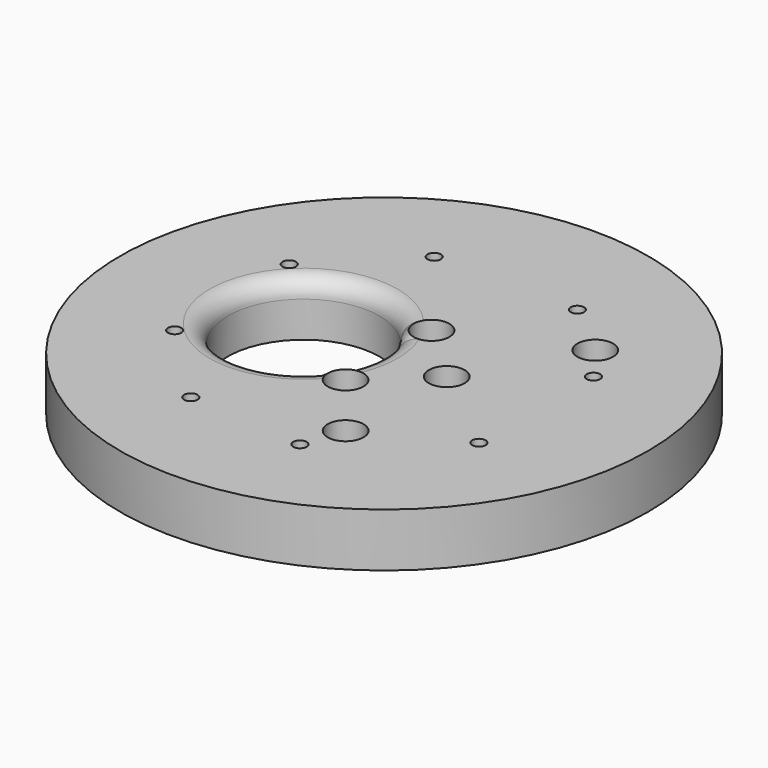
from build123d import *

# Parameters (mm, degrees)
CYLINDER1886_R     = 59
CYLINDER1886_DEPTH = 16
CYLINDER1957_R     = 17
CYLINDER1957_DEPTH = 160
CYLINDER1873_R     = 4
CYLINDER1873_DEPTH = 100
CYLINDER1883_R     = 4
CYLINDER1883_DEPTH = 100
CYLINDER1952_R     = 1.5
CYLINDER1952_DEPTH = 100
CYLINDER1950_R     = 1.5
CYLINDER1950_DEPTH = 100
CYLINDER1954_R     = 1.5
CYLINDER1954_DEPTH = 100
CYLINDER1971_R     = 1.5
CYLINDER1971_DEPTH = 100
CYLINDER1955_R     = 1.5
CYLINDER1955_DEPTH = 100
CYLINDER1953_R     = 1.5
CYLINDER1953_DEPTH = 100
CYLINDER1958_R     = 1.5
CYLINDER1958_DEPTH = 100
CYLINDER1956_R     = 1.5
CYLINDER1956_DEPTH = 100
CYLINDER1884_R     = 4
CYLINDER1884_DEPTH = 100
CYLINDER1872_R     = 4
CYLINDER1872_DEPTH = 100
CYLINDER1959_R     = 4
CYLINDER1959_DEPTH = 100
CYLINDER1951_R     = 4
CYLINDER1951_DEPTH = 100
CYLINDER1949_R     = 4
CYLINDER1949_DEPTH = 100
CYLINDER1885_R     = 4
CYLINDER1885_DEPTH = 100
CYLINDER1948_R     = 4
CYLINDER1948_DEPTH = 100
CYLINDER1960_R     = 4
CYLINDER1960_DEPTH = 100
CYLINDER1877_R     = 4
CYLINDER1877_DEPTH = 20
CYLINDER1874_R     = 4
CYLINDER1874_DEPTH = 20
CYLINDER1878_R     = 4
CYLINDER1878_DEPTH = 20
CYLINDER1879_R     = 4
CYLINDER1879_DEPTH = 40
CYLINDER1880_R     = 4
CYLINDER1880_DEPTH = 40
CYLINDER1881_R     = 4
CYLINDER1881_DEPTH = 40
CYLINDER1882_R     = 4
CYLINDER1882_DEPTH = 40
CYLINDER1875_R     = 4
CYLINDER1875_DEPTH = 20
CYLINDER1876_R     = 59
CYLINDER1876_DEPTH = 16
CHAMFER064_SIZE    = 4
FILLET004_R        = 4


with BuildPart() as obj1:
    # Cylinder1886 → Cylinder1886 (new body)
    with BuildSketch(Plane.XY.offset(10)):
        Circle(CYLINDER1886_R)
    extrude(amount=CYLINDER1886_DEPTH)


with BuildPart() as obj2:
    # Cylinder1957 → Cylinder1957 (new body)
    with BuildSketch(Plane(origin=(-18, 0, -60), x_dir=(1, 0, 0), z_dir=(0, 0, 1))):
        Circle(CYLINDER1957_R)
    extrude(amount=CYLINDER1957_DEPTH)


with BuildPart() as obj3:
    # Cylinder1873 → Cylinder1873 (new body)
    with BuildSketch(Plane(origin=(14, 0, -18), x_dir=(1, 0, 0), z_dir=(0, 0, 1))):
        Circle(CYLINDER1873_R)
    extrude(amount=CYLINDER1873_DEPTH)


with BuildPart() as obj4:
    # Cylinder1883 → Cylinder1883 (new body)
    with BuildSketch(Plane(origin=(90, 0, -18), x_dir=(1, 0, 0), z_dir=(0, 0, 1))):
        Circle(CYLINDER1883_R)
    extrude(amount=CYLINDER1883_DEPTH)

    # Compound973: union obj3
    add(obj3.part)


with BuildPart() as obj5:
    # Cylinder1952 → Cylinder1952 (new body)
    with BuildSketch(Plane(origin=(-34, -16, -60), x_dir=(1, 0, 0), z_dir=(0, 0, 1))):
        Circle(CYLINDER1952_R)
    extrude(amount=CYLINDER1952_DEPTH)


with BuildPart() as obj6:
    # Cylinder1950 → Cylinder1950 (new body)
    with BuildSketch(Plane(origin=(34, -16, -60), x_dir=(1, 0, 0), z_dir=(0, 0, 1))):
        Circle(CYLINDER1950_R)
    extrude(amount=CYLINDER1950_DEPTH)


with BuildPart() as obj7:
    # Cylinder1954 → Cylinder1954 (new body)
    with BuildSketch(Plane(origin=(34, 16, -60), x_dir=(1, 0, 0), z_dir=(0, 0, 1))):
        Circle(CYLINDER1954_R)
    extrude(amount=CYLINDER1954_DEPTH)


with BuildPart() as obj8:
    # Cylinder1971 → Cylinder1971 (new body)
    with BuildSketch(Plane(origin=(16, 34, -60), x_dir=(1, 0, 0), z_dir=(0, 0, 1))):
        Circle(CYLINDER1971_R)
    extrude(amount=CYLINDER1971_DEPTH)


with BuildPart() as obj9:
    # Cylinder1955 → Cylinder1955 (new body)
    with BuildSketch(Plane(origin=(10, -36, -60), x_dir=(1, 0, 0), z_dir=(0, 0, 1))):
        Circle(CYLINDER1955_R)
    extrude(amount=CYLINDER1955_DEPTH)


with BuildPart() as obj10:
    # Cylinder1953 → Cylinder1953 (new body)
    with BuildSketch(Plane(origin=(-16, -34, -60), x_dir=(1, 0, 0), z_dir=(0, 0, 1))):
        Circle(CYLINDER1953_R)
    extrude(amount=CYLINDER1953_DEPTH)


with BuildPart() as obj11:
    # Cylinder1958 → Cylinder1958 (new body)
    with BuildSketch(Plane(origin=(-16, 34, -60), x_dir=(1, 0, 0), z_dir=(0, 0, 1))):
        Circle(CYLINDER1958_R)
    extrude(amount=CYLINDER1958_DEPTH)


with BuildPart() as obj12:
    # Cylinder1956 → Cylinder1956 (new body)
    with BuildSketch(Plane(origin=(-34, 16, -60), x_dir=(1, 0, 0), z_dir=(0, 0, 1))):
        Circle(CYLINDER1956_R)
    extrude(amount=CYLINDER1956_DEPTH)

    # Compound971: union obj5, obj6, obj7, obj8, obj9, obj10, obj11
    add(obj5.part)
    add(obj6.part)
    add(obj7.part)
    add(obj8.part)
    add(obj9.part)
    add(obj10.part)
    add(obj11.part)


with BuildPart() as obj13:
    # Cylinder1884 → Cylinder1884 (new body)
    with BuildSketch(Plane(origin=(-16, 34, -90), x_dir=(1, 0, 0), z_dir=(0, 0, 1))):
        Circle(CYLINDER1884_R)
    extrude(amount=CYLINDER1884_DEPTH)


with BuildPart() as obj14:
    # Cylinder1872 → Cylinder1872 (new body)
    with BuildSketch(Plane(origin=(-16, -34, -90), x_dir=(1, 0, 0), z_dir=(0, 0, 1))):
        Circle(CYLINDER1872_R)
    extrude(amount=CYLINDER1872_DEPTH)


with BuildPart() as obj15:
    # Cylinder1959 → Cylinder1959 (new body)
    with BuildSketch(Plane(origin=(34, -16, -90), x_dir=(1, 0, 0), z_dir=(0, 0, 1))):
        Circle(CYLINDER1959_R)
    extrude(amount=CYLINDER1959_DEPTH)


with BuildPart() as obj16:
    # Cylinder1951 → Cylinder1951 (new body)
    with BuildSketch(Plane(origin=(16, 34, -90), x_dir=(1, 0, 0), z_dir=(0, 0, 1))):
        Circle(CYLINDER1951_R)
    extrude(amount=CYLINDER1951_DEPTH)


with BuildPart() as obj17:
    # Cylinder1949 → Cylinder1949 (new body)
    with BuildSketch(Plane(origin=(10, -36, -90), x_dir=(1, 0, 0), z_dir=(0, 0, 1))):
        Circle(CYLINDER1949_R)
    extrude(amount=CYLINDER1949_DEPTH)


with BuildPart() as obj18:
    # Cylinder1885 → Cylinder1885 (new body)
    with BuildSketch(Plane(origin=(-34, 16, -90), x_dir=(1, 0, 0), z_dir=(0, 0, 1))):
        Circle(CYLINDER1885_R)
    extrude(amount=CYLINDER1885_DEPTH)


with BuildPart() as obj19:
    # Cylinder1948 → Cylinder1948 (new body)
    with BuildSketch(Plane(origin=(34, 16, -90), x_dir=(1, 0, 0), z_dir=(0, 0, 1))):
        Circle(CYLINDER1948_R)
    extrude(amount=CYLINDER1948_DEPTH)


with BuildPart() as obj20:
    # Cylinder1960 → Cylinder1960 (new body)
    with BuildSketch(Plane(origin=(-34, -16, -90), x_dir=(1, 0, 0), z_dir=(0, 0, 1))):
        Circle(CYLINDER1960_R)
    extrude(amount=CYLINDER1960_DEPTH)

    # Compound975: union obj13, obj14, obj15, obj16, obj17, obj18, obj19
    add(obj13.part)
    add(obj14.part)
    add(obj15.part)
    add(obj16.part)
    add(obj17.part)
    add(obj18.part)
    add(obj19.part)


with BuildPart() as obj21:
    # Cylinder1877 → Cylinder1877 (new body)
    with BuildSketch(Plane(origin=(103, 12, -20), x_dir=(1, 0, 0), z_dir=(0, 0, 1))):
        Circle(CYLINDER1877_R)
    extrude(amount=CYLINDER1877_DEPTH)


with BuildPart() as obj22:
    # Cylinder1874 → Cylinder1874 (new body)
    with BuildSketch(Plane(origin=(76, 24, -18), x_dir=(1, 0, 0), z_dir=(0, 0, 1))):
        Circle(CYLINDER1874_R)
    extrude(amount=CYLINDER1874_DEPTH)


with BuildPart() as obj23:
    # Cylinder1878 → Cylinder1878 (new body)
    with BuildSketch(Plane(origin=(91, -27, -18), x_dir=(1, 0, 0), z_dir=(0, 0, 1))):
        Circle(CYLINDER1878_R)
    extrude(amount=CYLINDER1878_DEPTH)


with BuildPart() as obj24:
    # Cylinder1879 → Cylinder1879 (new body)
    with BuildSketch(Plane(origin=(13, -27, -18), x_dir=(1, 0, 0), z_dir=(0, 0, 1))):
        Circle(CYLINDER1879_R)
    extrude(amount=CYLINDER1879_DEPTH)


with BuildPart() as obj25:
    # Cylinder1880 → Cylinder1880 (new body)
    with BuildSketch(Plane(origin=(28, 24, -18), x_dir=(1, 0, 0), z_dir=(0, 0, 1))):
        Circle(CYLINDER1880_R)
    extrude(amount=CYLINDER1880_DEPTH)


with BuildPart() as obj26:
    # Cylinder1881 → Cylinder1881 (new body)
    with BuildSketch(Plane(origin=(1, -12, -18), x_dir=(1, 0, 0), z_dir=(0, 0, 1))):
        Circle(CYLINDER1881_R)
    extrude(amount=CYLINDER1881_DEPTH)


with BuildPart() as obj27:
    # Cylinder1882 → Cylinder1882 (new body)
    with BuildSketch(Plane(origin=(1, 12, -18), x_dir=(1, 0, 0), z_dir=(0, 0, 1))):
        Circle(CYLINDER1882_R)
    extrude(amount=CYLINDER1882_DEPTH)


with BuildPart() as obj28:
    # Cylinder1875 → Cylinder1875 (new body)
    with BuildSketch(Plane(origin=(103, -12, -20), x_dir=(1, 0, 0), z_dir=(0, 0, 1))):
        Circle(CYLINDER1875_R)
    extrude(amount=CYLINDER1875_DEPTH)

    # Compound974: union obj21, obj22, obj23, obj24, obj25, obj26, obj27
    add(obj21.part)
    add(obj22.part)
    add(obj23.part)
    add(obj24.part)
    add(obj25.part)
    add(obj26.part)
    add(obj27.part)


with BuildPart() as common:
    # Cylinder1876 → Cylinder1876 (new body)
    with BuildSketch(Plane.XY.offset(2)):
        Circle(CYLINDER1876_R)
    extrude(amount=CYLINDER1876_DEPTH)

    # Cut653: cut obj28
    add(obj28.part, mode=Mode.SUBTRACT)

    # Cut652: cut obj20
    add(obj20.part, mode=Mode.SUBTRACT)

    # Cut650: cut obj12
    add(obj12.part, mode=Mode.SUBTRACT)

    # Chamfer064
    chamfer064_edges = [common.edges().sort_by_distance(p)[0] for p in [
        (-59, 0, 2),
    ]]
    chamfer(chamfer064_edges, length=CHAMFER064_SIZE)

    # Cut655: cut obj4
    add(obj4.part, mode=Mode.SUBTRACT)


with BuildPart() as common_1:
    # Cut655 placement: moved
    add(common.part.moved(Location((0, 0, 4))))

    # Cut654: cut obj2
    add(obj2.part, mode=Mode.SUBTRACT)

    # Fillet004
    fillet004_edges = [common_1.edges().sort_by_distance(p)[0] for p in [
        (-35, 0, 22),
    ]]
    fillet(fillet004_edges, radius=FILLET004_R)

    # Common: intersect obj1
    add(obj1.part, mode=Mode.INTERSECT)


solid = common_1.part
